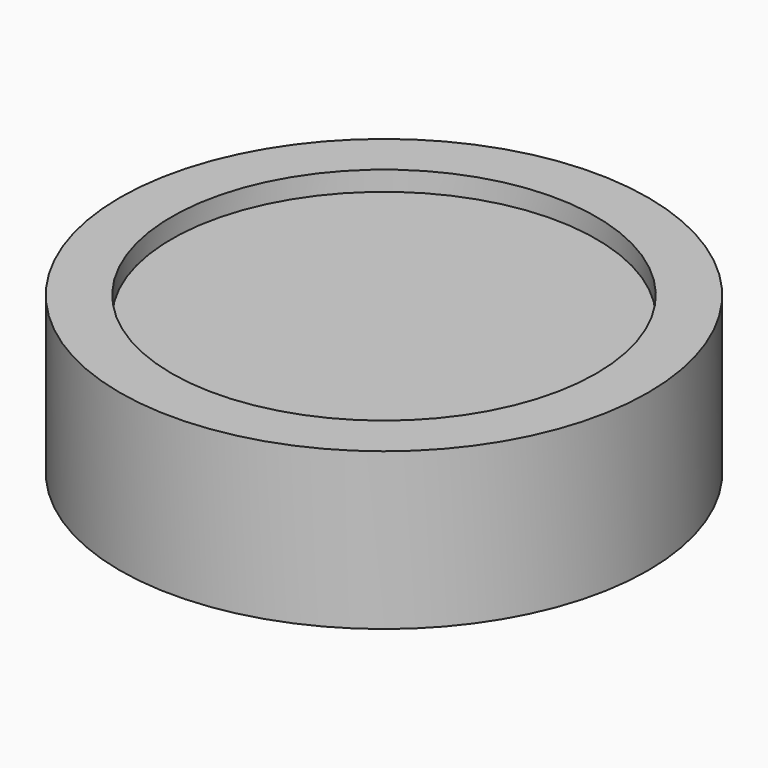
from build123d import *

# Parameters (mm, degrees)
SKETCH_R      = 13.5
PAD_DEPTH     = 2
SKETCH001_R   = 13.5
SKETCH001_R_2 = 10.85
PAD001_DEPTH  = 1
SKETCH002_R   = 13.5
SKETCH002_R_2 = 8
PAD002_DEPTH  = 5
CHAMFER_SIZE  = 1


with BuildPart() as part:
    # Sketch → Pad (new body)
    with BuildSketch(Plane.XY):
        Circle(SKETCH_R)
    extrude(amount=PAD_DEPTH)

    # Sketch001 (on Face3 of Pad) → Pad001 (join)
    with BuildSketch(Plane.XY.offset(2)):
        Circle(SKETCH001_R)
        Circle(SKETCH001_R_2, mode=Mode.SUBTRACT)
    extrude(amount=PAD001_DEPTH)

    # Sketch002 (on Face2 of Pad001) → Pad002 (join)
    with BuildSketch(Plane(origin=(0, 0, 0), x_dir=(1, 0, 0), z_dir=(0, 0, -1))):
        Circle(SKETCH002_R)
        Circle(SKETCH002_R_2, mode=Mode.SUBTRACT)
    extrude(amount=PAD002_DEPTH)

    # Chamfer
    chamfer_edges = [part.edges().sort_by_distance(p)[0] for p in [
        (-8, 0, -5),
    ]]
    chamfer(chamfer_edges, length=CHAMFER_SIZE)


solid = part.part
